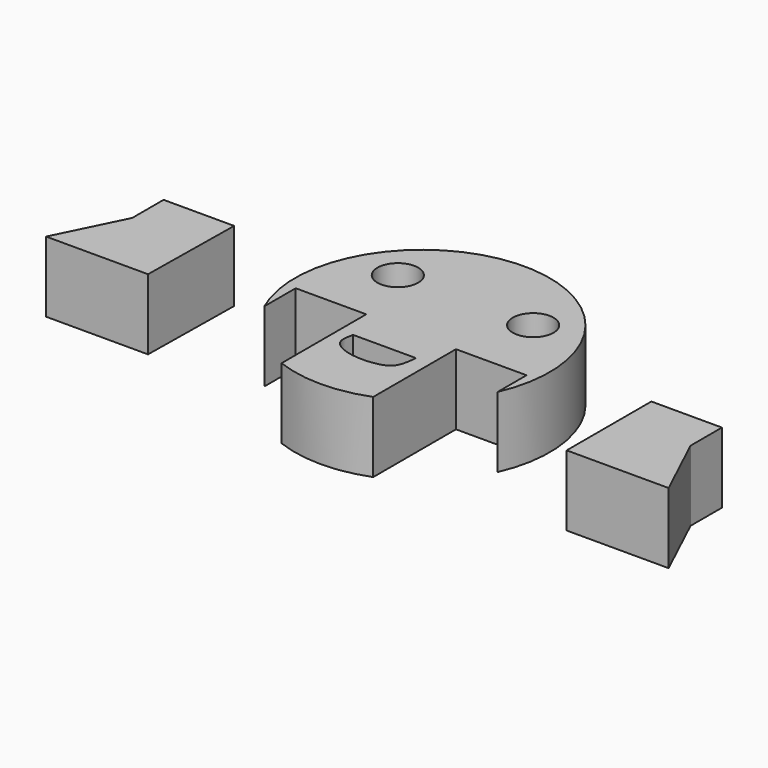
from build123d import *

# Parameters (mm, degrees)
F0_R     = 82.55
F0_R_2   = 13.2161840286
F1_DEPTH = 45.72
F3_DEPTH = 45.72
F5_DEPTH = 45.72
F7_DEPTH = 45.72
F9_DEPTH = 45.72


with BuildPart() as f1:
    # F0 (on Top) → F1 (new body)
    with BuildSketch(Plane.XY):
        Circle(F0_R)
        with Locations((-43.8344989988, 34.9475856532)):
            Circle(F0_R_2, mode=Mode.SUBTRACT)
        with Locations((43.8344989988, 34.9475856532)):
            Circle(F0_R_2, mode=Mode.SUBTRACT)
    extrude(amount=F1_DEPTH)

    # F2 (on face) → F3 (cut)
    with BuildSketch(Plane.XY.offset(45.72)):
        with BuildLine():
            Line((20.1142486185, -30.2458666265), (-20.7102242857, -30.2458666265))
            add(Edge.make_bspline(
                [(-20.7102242857, -30.2458666265), (-21.5095821677, -33.9895845007), (-23.2353545013, -42.0720778093), (-8.2458384912, -48.9650793457), (7.921874901, -48.3110472906), (18.5336653767, -44.2743095129), (19.5611474732, -35.1549075564), (20.1142486185, -30.2458666265)],
                knots=[0, 0, 0, 0, 0.1812969077, 0.3914106492, 0.6207351021, 0.795838925, 1, 1, 1, 1], degree=3))
        make_face()
    extrude(amount=-F3_DEPTH, mode=Mode.SUBTRACT)

    # F4 (on face) → F5 (cut)
    with BuildSketch(Plane.XY.offset(45.72)):
        with BuildLine():
            Line((-75.2678418537, -8.5006560804), (-75.2678418537, -33.9006560804))
            ThreePointArc((-75.2678418537, -33.9006560804), (-56.6807726462, -60.014935743), (-29.5478418537, -77.0806560804))
            Line((-29.5478418537, -77.0806560804), (-29.5478418537, -8.5006560804))
            Line((-29.5478418537, -8.5006560804), (-75.2678418537, -8.5006560804))
        make_face()
        with BuildLine():
            ThreePointArc((29.7703243229, -76.995001719), (56.9651825082, -59.7450456675), (75.4903243229, -33.4022968315))
            Line((75.4903243229, -33.4022968315), (75.4903243229, -9.9825717488))
            Line((75.4903243229, -9.9825717488), (29.7703243229, -9.9825717488))
            Line((29.7703243229, -9.9825717488), (29.7703243229, -76.995001719))
        make_face()
    extrude(amount=-F5_DEPTH, mode=Mode.SUBTRACT)


with BuildPart() as f7:
    # F6 (on Top) → F7 (new body)
    with BuildSketch(Plane.XY):
        Polygon((-142.2258148932, 25.4), (-187.9458148932, 25.4), (-187.9458148932, 0), (-209.2173760553, -43.1733981319), (-143.1773760553, -43.1733981319), align=None)
    extrude(amount=F7_DEPTH)


with BuildPart() as f9:
    # F8 (on Top) → F9 (new body)
    with BuildSketch(Plane.XY):
        Polygon((188.4676078524, 7.0249855754), (142.7476078524, 7.0249855754), (142.7476078524, -61.5550144246), (208.7876078524, -61.5550144246), (188.4676078524, -18.3750144246), align=None)
    extrude(amount=F9_DEPTH)


solid = Compound([f1.part, f7.part, f9.part])
